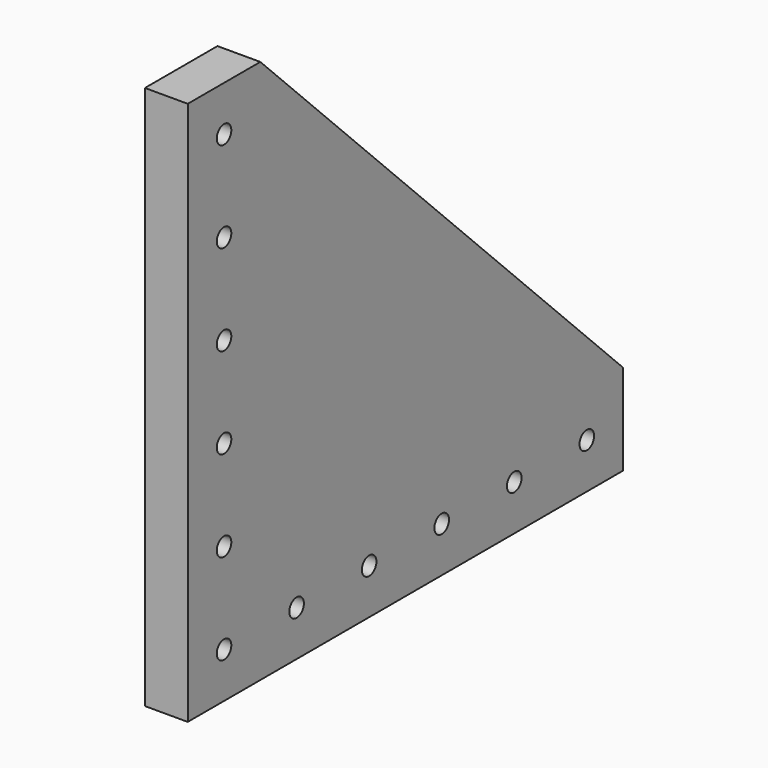
from build123d import *

# Parameters (mm, degrees)
F1_DEPTH = 12
F2_R     = 2.5527
F3_DEPTH = 25.4


with BuildPart() as f1:
    # F0 (on Right) → F1 (new body)
    with BuildSketch(Plane.YZ):
        Polygon((-63.814045, 83.583468), (-89.214045, 83.583468), (-89.214045, -68.816532), (63.185955, -68.816532), (63.185955, -43.416532), align=None)
    extrude(amount=F1_DEPTH)

    # F2 (on face) → F3 (cut)
    with BuildSketch(Plane.YZ.offset(12)):
        with Locations((-76.514045, -56.116532)):
            Circle(F2_R)
        with Locations((-76.514045, -30.716532)):
            Circle(F2_R)
        with Locations((-76.514045, -5.316532)):
            Circle(F2_R)
        with Locations((-76.514045, 20.083468)):
            Circle(F2_R)
        with Locations((-76.514045, 45.483468)):
            Circle(F2_R)
        with Locations((-76.514045, 70.883468)):
            Circle(F2_R)
        with Locations((-51.114045, -56.116532)):
            Circle(F2_R)
        with Locations((-25.714045, -56.116532)):
            Circle(F2_R)
        with Locations((-0.314045, -56.116532)):
            Circle(F2_R)
        with Locations((25.085955, -56.116532)):
            Circle(F2_R)
        with Locations((50.485955, -56.116532)):
            Circle(F2_R)
    extrude(amount=-F3_DEPTH, mode=Mode.SUBTRACT)


solid = f1.part
